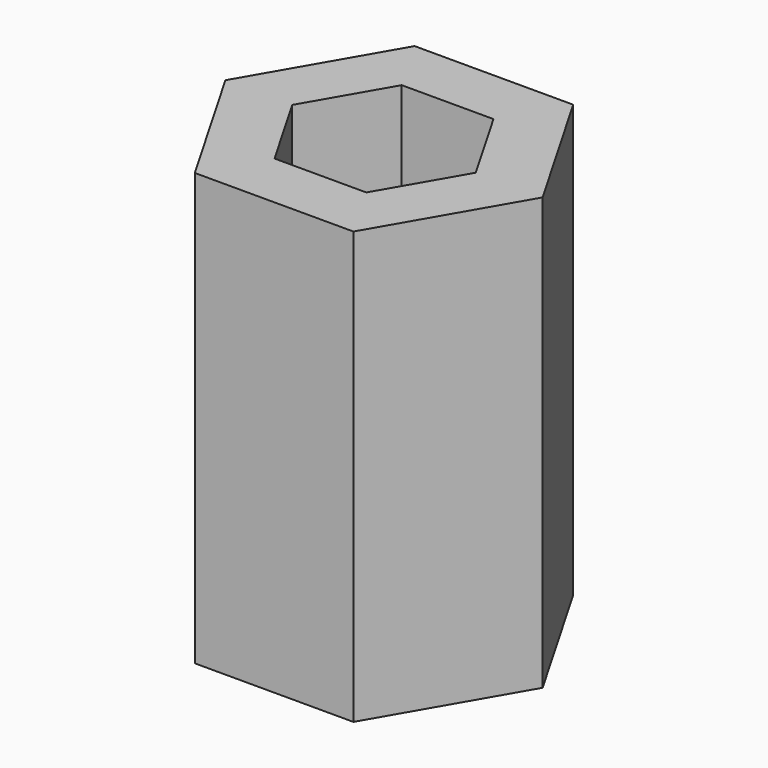
from build123d import *

# Parameters (mm, degrees)
PAD_DEPTH     = 22
SKETCH001_R   = 5
SKETCH001_R_2 = 2.5
PAD001_DEPTH  = 0.4


with BuildPart() as part:
    # Sketch → Pad (new body)
    with BuildSketch(Plane.XY):
        Polygon((4.041452, -7), (8.082904, 0), (4.041452, 7), (-4.041452, 7), (-8.082904, 0), (-4.041452, -7), align=None)
        Polygon((4.676537, 0), (2.338269, 4.05), (-2.338269, 4.05), (-4.676537, 0), (-2.338269, -4.05), (2.338269, -4.05), align=None, mode=Mode.SUBTRACT)
    extrude(amount=PAD_DEPTH)

    # Sketch001 → Pad001 (join)
    with BuildSketch(Plane.XY):
        Circle(SKETCH001_R)
        Circle(SKETCH001_R_2, mode=Mode.SUBTRACT)
    extrude(amount=PAD001_DEPTH)


solid = part.part
